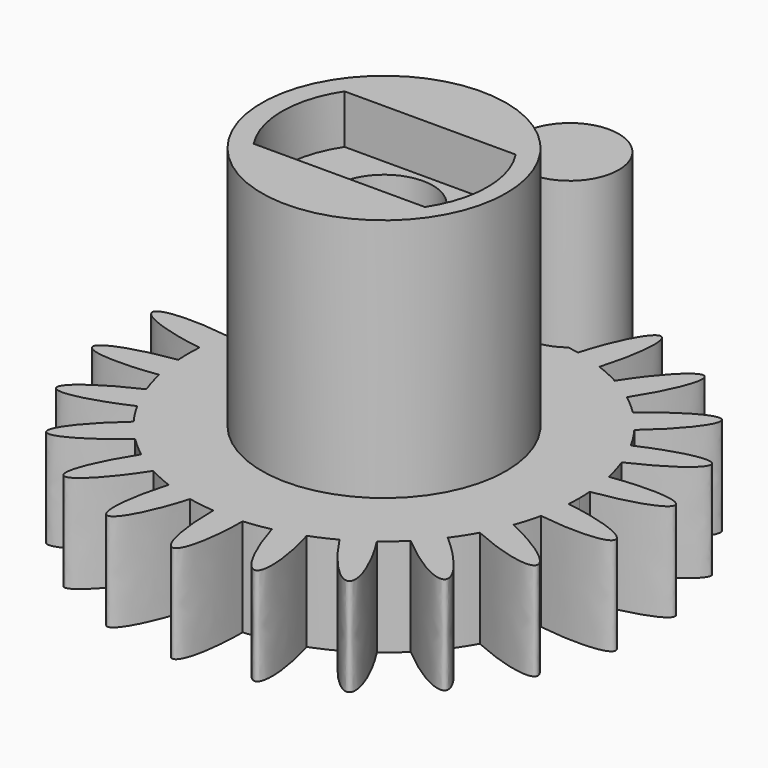
from build123d import *

# Parameters (mm, degrees)
F0_R     = 2.5
F0_R_2   = 1
F2_DEPTH = 2
F1_R     = 1
F3_DEPTH = 5
F4_DEPTH = 6
F5_DEPTH = 7


with BuildPart() as f2:
    # F0 (on Top) → F2 (new body)
    with BuildSketch(Plane.XY):
        with BuildLine():
            ThreePointArc((3.9908283651, -0.270719338), (3.9977064337, -0.1354373276), (4, 0))
            ThreePointArc((4, 0), (3.9977064337, 0.1354373276), (3.9908283651, 0.270719338))
            add(Edge.make_bspline(
                [(2.5735357489, 0.3700185795), (2.6158880295, 0.0754519975), (3.9908283651, 0.270719338)],
                knots=[0, 0, 0, 1.5627497153, 1.5627497153, 1.5627497153], degree=2, weights=[1, 0.7099459573, 1]))
            add(Edge.make_bspline(
                [(3.9054422265, 0.8645929766), (2.5311834683, 0.6645851615), (2.5735357489, 0.3700185795)],
                knots=[4.7204355919, 4.7204355919, 4.7204355919, 6.2831853072, 6.2831853072, 6.2831853072], degree=2, weights=[1, 0.7099459573, 1]))
            ThreePointArc((3.9054422265, 0.8645929766), (3.8379718945, 1.1269302274), (3.752901324, 1.3840995819))
            add(Edge.make_bspline(
                [(2.3650431879, 1.0800790338), (2.4886688999, 0.8093764844), (3.752901324, 1.3840995819)],
                knots=[0, 0, 0, 1.5627497153, 1.5627497153, 1.5627497153], degree=2, weights=[1, 0.7099459573, 1]))
            add(Edge.make_bspline(
                [(3.5036603853, 1.9298611101), (2.2414174759, 1.3507815832), (2.3650431879, 1.0800790338)],
                knots=[4.7204355919, 4.7204355919, 4.7204355919, 6.2831853072, 6.2831853072, 6.2831853072], degree=2, weights=[1, 0.7099459573, 1]))
            ThreePointArc((3.5036603853, 1.9298611101), (3.3650141313, 2.1625632698), (3.2109365369, 2.3853483092))
            add(Edge.make_bspline(
                [(1.9649488933, 1.7026379083), (2.1598326167, 1.4777301021), (3.2109365369, 2.3853483092)],
                knots=[0, 0, 0, 1.5627497153, 1.5627497153, 1.5627497153], degree=2, weights=[1, 0.7099459573, 1]))
            add(Edge.make_bspline(
                [(2.8180328167, 2.8387833739), (1.7700651699, 1.9275457144), (1.9649488933, 1.7026379083)],
                knots=[4.7204355919, 4.7204355919, 4.7204355919, 6.2831853072, 6.2831853072, 6.2831853072], degree=2, weights=[1, 0.7099459573, 1]))
            ThreePointArc((2.8180328167, 2.8387833739), (2.6194429358, 3.0229982974), (2.4088407678, 3.1933503027))
            add(Edge.make_bspline(
                [(1.4056661254, 2.1872591854), (1.6560195399, 2.0263668153), (2.4088407678, 3.1933503027)],
                knots=[0, 0, 0, 1.5627497153, 1.5627497153, 1.5627497153], degree=2, weights=[1, 0.7099459573, 1]))
            add(Edge.make_bspline(
                [(1.9041049888, 3.5177242916), (1.1553127108, 2.3481515554), (1.4056661254, 2.1872591854)],
                knots=[4.7204355919, 4.7204355919, 4.7204355919, 6.2831853072, 6.2831853072, 6.2831853072], degree=2, weights=[1, 0.7099459573, 1]))
            ThreePointArc((1.9041049888, 3.5177242916), (1.661660052, 3.6385279814), (1.4115950456, 3.7426460462))
            add(Edge.make_bspline(
                [(0.7325046478, 2.4946817314), (1.0180456088, 2.4108393404), (1.4115950456, 3.7426460462)],
                knots=[0, 0, 0, 1.5627497153, 1.5627497153, 1.5627497153], degree=2, weights=[1, 0.7099459573, 1]))
            add(Edge.make_bspline(
                [(0.8359178989, 3.9116801079), (0.4469636868, 2.5785241224), (0.7325046478, 2.4946817314)],
                knots=[4.7204355919, 4.7204355919, 4.7204355919, 6.2831853072, 6.2831853072, 6.2831853072], degree=2, weights=[1, 0.7099459573, 1]))
            ThreePointArc((0.8359178989, 3.9116801079), (0.5692593531, 3.9592857675), (0.2999902879, 3.9887348655))
            add(Edge.make_bspline(
                [(0, 2.6), (0.2975956769, 2.6), (0.2999902879, 3.9887348655)],
                knots=[0, 0, 0, 1.5627497153, 1.5627497153, 1.5627497153], degree=2, weights=[1, 0.7099459573, 1]))
            add(Edge.make_bspline(
                [(-0.2999902879, 3.9887348655), (-0.2975956769, 2.6), (0, 2.6)],
                knots=[4.7204355919, 4.7204355919, 4.7204355919, 6.2831853072, 6.2831853072, 6.2831853072], degree=2, weights=[1, 0.7099459573, 1]))
            ThreePointArc((-0.2999902879, 3.9887348655), (-0.5692593531, 3.9592857675), (-0.8359178989, 3.9116801079))
            add(Edge.make_bspline(
                [(-0.7325046478, 2.4946817314), (-0.4469636868, 2.5785241224), (-0.8359178989, 3.9116801079)],
                knots=[0, 0, 0, 1.5627497153, 1.5627497153, 1.5627497153], degree=2, weights=[1, 0.7099459573, 1]))
            add(Edge.make_bspline(
                [(-1.4115950456, 3.7426460462), (-1.0180456088, 2.4108393404), (-0.7325046478, 2.4946817314)],
                knots=[4.7204355919, 4.7204355919, 4.7204355919, 6.2831853072, 6.2831853072, 6.2831853072], degree=2, weights=[1, 0.7099459573, 1]))
            ThreePointArc((-1.4115950456, 3.7426460462), (-1.661660052, 3.6385279814), (-1.9041049888, 3.5177242916))
            add(Edge.make_bspline(
                [(-1.4056661254, 2.1872591854), (-1.1553127108, 2.3481515554), (-1.9041049888, 3.5177242916)],
                knots=[0, 0, 0, 1.5627497153, 1.5627497153, 1.5627497153], degree=2, weights=[1, 0.7099459573, 1]))
            add(Edge.make_bspline(
                [(-2.4088407678, 3.1933503027), (-1.6560195399, 2.0263668153), (-1.4056661254, 2.1872591854)],
                knots=[4.7204355919, 4.7204355919, 4.7204355919, 6.2831853072, 6.2831853072, 6.2831853072], degree=2, weights=[1, 0.7099459573, 1]))
            ThreePointArc((-2.4088407678, 3.1933503027), (-2.6194429358, 3.0229982974), (-2.8180328167, 2.8387833739))
            add(Edge.make_bspline(
                [(-1.9649488933, 1.7026379083), (-1.7700651699, 1.9275457144), (-2.8180328167, 2.8387833739)],
                knots=[0, 0, 0, 1.5627497153, 1.5627497153, 1.5627497153], degree=2, weights=[1, 0.7099459573, 1]))
            add(Edge.make_bspline(
                [(-3.2109365369, 2.3853483092), (-2.1598326167, 1.4777301021), (-1.9649488933, 1.7026379083)],
                knots=[4.7204355919, 4.7204355919, 4.7204355919, 6.2831853072, 6.2831853072, 6.2831853072], degree=2, weights=[1, 0.7099459573, 1]))
            ThreePointArc((-3.2109365369, 2.3853483092), (-3.3650141313, 2.1625632698), (-3.5036603853, 1.9298611101))
            add(Edge.make_bspline(
                [(-2.3650431879, 1.0800790338), (-2.2414174759, 1.3507815832), (-3.5036603853, 1.9298611101)],
                knots=[0, 0, 0, 1.5627497153, 1.5627497153, 1.5627497153], degree=2, weights=[1, 0.7099459573, 1]))
            add(Edge.make_bspline(
                [(-3.752901324, 1.3840995819), (-2.4886688999, 0.8093764844), (-2.3650431879, 1.0800790338)],
                knots=[4.7204355919, 4.7204355919, 4.7204355919, 6.2831853072, 6.2831853072, 6.2831853072], degree=2, weights=[1, 0.7099459573, 1]))
            ThreePointArc((-3.752901324, 1.3840995819), (-3.8379718945, 1.1269302274), (-3.9054422265, 0.8645929766))
            add(Edge.make_bspline(
                [(-2.5735357489, 0.3700185795), (-2.5311834683, 0.6645851615), (-3.9054422265, 0.8645929766)],
                knots=[0, 0, 0, 1.5627497153, 1.5627497153, 1.5627497153], degree=2, weights=[1, 0.7099459573, 1]))
            add(Edge.make_bspline(
                [(-3.9908283651, 0.270719338), (-2.6158880295, 0.0754519975), (-2.5735357489, 0.3700185795)],
                knots=[4.7204355919, 4.7204355919, 4.7204355919, 6.2831853072, 6.2831853072, 6.2831853072], degree=2, weights=[1, 0.7099459573, 1]))
            ThreePointArc((-3.9908283651, 0.270719338), (-4, 0), (-3.9908283651, -0.270719338))
            add(Edge.make_bspline(
                [(-2.5735357489, -0.3700185795), (-2.6158880295, -0.0754519975), (-3.9908283651, -0.270719338)],
                knots=[0, 0, 0, 1.5627497153, 1.5627497153, 1.5627497153], degree=2, weights=[1, 0.7099459573, 1]))
            add(Edge.make_bspline(
                [(-3.9054422265, -0.8645929766), (-2.5311834683, -0.6645851615), (-2.5735357489, -0.3700185795)],
                knots=[4.7204355919, 4.7204355919, 4.7204355919, 6.2831853072, 6.2831853072, 6.2831853072], degree=2, weights=[1, 0.7099459573, 1]))
            ThreePointArc((-3.9054422265, -0.8645929766), (-3.8379718945, -1.1269302274), (-3.752901324, -1.3840995819))
            add(Edge.make_bspline(
                [(-2.3650431879, -1.0800790338), (-2.4886688999, -0.8093764844), (-3.752901324, -1.3840995819)],
                knots=[0, 0, 0, 1.5627497153, 1.5627497153, 1.5627497153], degree=2, weights=[1, 0.7099459573, 1]))
            add(Edge.make_bspline(
                [(-3.5036603853, -1.9298611101), (-2.2414174759, -1.3507815832), (-2.3650431879, -1.0800790338)],
                knots=[4.7204355919, 4.7204355919, 4.7204355919, 6.2831853072, 6.2831853072, 6.2831853072], degree=2, weights=[1, 0.7099459573, 1]))
            ThreePointArc((-3.5036603853, -1.9298611101), (-3.3650141313, -2.1625632698), (-3.2109365369, -2.3853483092))
            add(Edge.make_bspline(
                [(-1.9649488933, -1.7026379083), (-2.1598326167, -1.4777301021), (-3.2109365369, -2.3853483092)],
                knots=[0, 0, 0, 1.5627497153, 1.5627497153, 1.5627497153], degree=2, weights=[1, 0.7099459573, 1]))
            add(Edge.make_bspline(
                [(-2.8180328167, -2.8387833739), (-1.7700651699, -1.9275457144), (-1.9649488933, -1.7026379083)],
                knots=[4.7204355919, 4.7204355919, 4.7204355919, 6.2831853072, 6.2831853072, 6.2831853072], degree=2, weights=[1, 0.7099459573, 1]))
            ThreePointArc((-2.8180328167, -2.8387833739), (-2.6194429358, -3.0229982974), (-2.4088407678, -3.1933503027))
            add(Edge.make_bspline(
                [(-1.4056661254, -2.1872591854), (-1.6560195399, -2.0263668153), (-2.4088407678, -3.1933503027)],
                knots=[0, 0, 0, 1.5627497153, 1.5627497153, 1.5627497153], degree=2, weights=[1, 0.7099459573, 1]))
            add(Edge.make_bspline(
                [(-1.9041049888, -3.5177242916), (-1.1553127108, -2.3481515554), (-1.4056661254, -2.1872591854)],
                knots=[4.7204355919, 4.7204355919, 4.7204355919, 6.2831853072, 6.2831853072, 6.2831853072], degree=2, weights=[1, 0.7099459573, 1]))
            ThreePointArc((-1.9041049888, -3.5177242916), (-1.661660052, -3.6385279814), (-1.4115950456, -3.7426460462))
            add(Edge.make_bspline(
                [(-0.7325046478, -2.4946817314), (-1.0180456088, -2.4108393404), (-1.4115950456, -3.7426460462)],
                knots=[0, 0, 0, 1.5627497153, 1.5627497153, 1.5627497153], degree=2, weights=[1, 0.7099459573, 1]))
            add(Edge.make_bspline(
                [(-0.8359178989, -3.9116801079), (-0.4469636868, -2.5785241224), (-0.7325046478, -2.4946817314)],
                knots=[4.7204355919, 4.7204355919, 4.7204355919, 6.2831853072, 6.2831853072, 6.2831853072], degree=2, weights=[1, 0.7099459573, 1]))
            ThreePointArc((-0.8359178989, -3.9116801079), (-0.5692593531, -3.9592857675), (-0.2999902879, -3.9887348655))
            add(Edge.make_bspline(
                [(0, -2.6), (-0.2975956769, -2.6), (-0.2999902879, -3.9887348655)],
                knots=[0, 0, 0, 1.5627497153, 1.5627497153, 1.5627497153], degree=2, weights=[1, 0.7099459573, 1]))
            add(Edge.make_bspline(
                [(0.2999902879, -3.9887348655), (0.2975956769, -2.6), (0, -2.6)],
                knots=[4.7204355919, 4.7204355919, 4.7204355919, 6.2831853072, 6.2831853072, 6.2831853072], degree=2, weights=[1, 0.7099459573, 1]))
            ThreePointArc((0.2999902879, -3.9887348655), (0.5692593531, -3.9592857675), (0.8359178989, -3.9116801079))
            add(Edge.make_bspline(
                [(0.7325046478, -2.4946817314), (0.4469636868, -2.5785241224), (0.8359178989, -3.9116801079)],
                knots=[0, 0, 0, 1.5627497153, 1.5627497153, 1.5627497153], degree=2, weights=[1, 0.7099459573, 1]))
            add(Edge.make_bspline(
                [(1.4115950456, -3.7426460462), (1.0180456088, -2.4108393404), (0.7325046478, -2.4946817314)],
                knots=[4.7204355919, 4.7204355919, 4.7204355919, 6.2831853072, 6.2831853072, 6.2831853072], degree=2, weights=[1, 0.7099459573, 1]))
            ThreePointArc((1.4115950456, -3.7426460462), (1.661660052, -3.6385279814), (1.9041049888, -3.5177242916))
            add(Edge.make_bspline(
                [(1.4056661254, -2.1872591854), (1.1553127108, -2.3481515554), (1.9041049888, -3.5177242916)],
                knots=[0, 0, 0, 1.5627497153, 1.5627497153, 1.5627497153], degree=2, weights=[1, 0.7099459573, 1]))
            add(Edge.make_bspline(
                [(2.4088407678, -3.1933503027), (1.6560195399, -2.0263668153), (1.4056661254, -2.1872591854)],
                knots=[4.7204355919, 4.7204355919, 4.7204355919, 6.2831853072, 6.2831853072, 6.2831853072], degree=2, weights=[1, 0.7099459573, 1]))
            ThreePointArc((2.4088407678, -3.1933503027), (2.6194429358, -3.0229982974), (2.8180328167, -2.8387833739))
            add(Edge.make_bspline(
                [(1.9649488933, -1.7026379083), (1.7700651699, -1.9275457144), (2.8180328167, -2.8387833739)],
                knots=[0, 0, 0, 1.5627497153, 1.5627497153, 1.5627497153], degree=2, weights=[1, 0.7099459573, 1]))
            add(Edge.make_bspline(
                [(3.2109365369, -2.3853483092), (2.1598326167, -1.4777301021), (1.9649488933, -1.7026379083)],
                knots=[4.7204355919, 4.7204355919, 4.7204355919, 6.2831853072, 6.2831853072, 6.2831853072], degree=2, weights=[1, 0.7099459573, 1]))
            ThreePointArc((3.2109365369, -2.3853483092), (3.3650141313, -2.1625632698), (3.5036603853, -1.9298611101))
            add(Edge.make_bspline(
                [(2.3650431879, -1.0800790338), (2.2414174759, -1.3507815832), (3.5036603853, -1.9298611101)],
                knots=[0, 0, 0, 1.5627497153, 1.5627497153, 1.5627497153], degree=2, weights=[1, 0.7099459573, 1]))
            add(Edge.make_bspline(
                [(3.752901324, -1.3840995819), (2.4886688999, -0.8093764844), (2.3650431879, -1.0800790338)],
                knots=[4.7204355919, 4.7204355919, 4.7204355919, 6.2831853072, 6.2831853072, 6.2831853072], degree=2, weights=[1, 0.7099459573, 1]))
            ThreePointArc((3.752901324, -1.3840995819), (3.8379718945, -1.1269302274), (3.9054422265, -0.8645929766))
            add(Edge.make_bspline(
                [(2.5735357489, -0.3700185795), (2.5311834683, -0.6645851615), (3.9054422265, -0.8645929766)],
                knots=[0, 0, 0, 1.5627497153, 1.5627497153, 1.5627497153], degree=2, weights=[1, 0.7099459573, 1]))
            add(Edge.make_bspline(
                [(3.9908283651, -0.270719338), (2.6158880295, -0.0754519975), (2.5735357489, -0.3700185795)],
                knots=[4.7204355919, 4.7204355919, 4.7204355919, 6.2831853072, 6.2831853072, 6.2831853072], degree=2, weights=[1, 0.7099459573, 1]))
        make_face()
        Circle(F0_R, mode=Mode.SUBTRACT)
        Circle(F0_R)
        with BuildLine():
            ThreePointArc((1.7834938945, 1.1374356594), (2.0440908208, 0.5828347654), (2.1334938945, -0.0233830173))
            ThreePointArc((2.1334938945, -0.0233830173), (2.0440908208, -0.6296007999), (1.7834938945, -1.1842016939))
            ThreePointArc((1.7834938945, -1.1842016939), (0.0334938945, -2.1233830173), (-1.7165061055, -1.1842016939))
            ThreePointArc((-1.7165061055, -1.1842016939), (-2.0665061055, -0.0233830173), (-1.7165061055, 1.1374356594))
            ThreePointArc((-1.7165061055, 1.1374356594), (0.0334938945, 2.0766169827), (1.7834938945, 1.1374356594))
        make_face(mode=Mode.SUBTRACT)
        with BuildLine():
            ThreePointArc((1.7834938945, -1.1842016939), (2.0440908208, -0.6296007999), (2.1334938945, -0.0233830173))
            ThreePointArc((2.1334938945, -0.0233830173), (2.0440908208, 0.5828347654), (1.7834938945, 1.1374356594))
            Line((1.7834938945, 1.1374356594), (-1.7165061055, 1.1374356594))
            ThreePointArc((-1.7165061055, 1.1374356594), (-2.0665061055, -0.0233830173), (-1.7165061055, -1.1842016939))
            Line((-1.7165061055, -1.1842016939), (1.7834938945, -1.1842016939))
        make_face()
        Circle(F0_R_2, mode=Mode.SUBTRACT)
        with BuildLine():
            ThreePointArc((-1.7165061055, -1.1842016939), (0.0334938945, -2.1233830173), (1.7834938945, -1.1842016939))
            Line((1.7834938945, -1.1842016939), (-1.7165061055, -1.1842016939))
        make_face()
        with BuildLine():
            Line((-1.7165061055, 1.1374356594), (1.7834938945, 1.1374356594))
            ThreePointArc((1.7834938945, 1.1374356594), (0.0334938945, 2.0766169827), (-1.7165061055, 1.1374356594))
        make_face()
        with BuildLine():
            ThreePointArc((3.9054422265, 0.8645929766), (3.9592857675, 0.5692593531), (3.9908283651, 0.270719338))
            add(Edge.make_bspline(
                [(3.9908283651, 0.270719338), (5.3880751729, 0.4691546164), (5.3450357862, 0.7685001267), (5.3019963994, 1.067845637), (3.9054422265, 0.8645929766)],
                knots=[1.5627497153, 1.5627497153, 1.5627497153, 3.1415926536, 3.1415926536, 4.7204355919, 4.7204355919, 4.7204355919], degree=2, weights=[1, 0.7042561591, 1, 0.7042561591, 1]))
        make_face()
        with BuildLine():
            add(Edge.make_bspline(
                [(3.9054422265, -0.8645929766), (5.3019963994, -1.067845637), (5.3450357862, -0.7685001267), (5.3880751729, -0.4691546164), (3.9908283651, -0.270719338)],
                knots=[1.5627497153, 1.5627497153, 1.5627497153, 3.1415926536, 3.1415926536, 4.7204355919, 4.7204355919, 4.7204355919], degree=2, weights=[1, 0.7042561591, 1, 0.7042561591, 1]))
            ThreePointArc((3.9908283651, -0.270719338), (3.9592857675, -0.5692593531), (3.9054422265, -0.8645929766))
        make_face()
        with BuildLine():
            ThreePointArc((3.5036603853, 1.9298611101), (3.6385279814, 1.661660052), (3.752901324, 1.3840995819))
            add(Edge.make_bspline(
                [(3.752901324, 1.3840995819), (5.0376441401, 1.9681467529), (4.9120127749, 2.2432410702), (4.7863814097, 2.5183353875), (3.5036603853, 1.9298611101)],
                knots=[1.5627497153, 1.5627497153, 1.5627497153, 3.1415926536, 3.1415926536, 4.7204355919, 4.7204355919, 4.7204355919], degree=2, weights=[1, 0.7042561591, 1, 0.7042561591, 1]))
        make_face()
        with BuildLine():
            add(Edge.make_bspline(
                [(3.5036603853, -1.9298611101), (4.7863814097, -2.5183353875), (4.9120127749, -2.2432410702), (5.0376441401, -1.9681467529), (3.752901324, -1.3840995819)],
                knots=[1.5627497153, 1.5627497153, 1.5627497153, 3.1415926536, 3.1415926536, 4.7204355919, 4.7204355919, 4.7204355919], degree=2, weights=[1, 0.7042561591, 1, 0.7042561591, 1]))
            ThreePointArc((3.752901324, -1.3840995819), (3.6385279814, -1.661660052), (3.5036603853, -1.9298611101))
        make_face()
        with BuildLine():
            add(Edge.make_bspline(
                [(2.8180328167, -2.8387833739), (3.8830022639, -3.7648045821), (4.0810477015, -3.5362479633), (4.2790931391, -3.3076913445), (3.2109365369, -2.3853483092)],
                knots=[1.5627497153, 1.5627497153, 1.5627497153, 3.1415926536, 3.1415926536, 4.7204355919, 4.7204355919, 4.7204355919], degree=2, weights=[1, 0.7042561591, 1, 0.7042561591, 1]))
            ThreePointArc((3.2109365369, -2.3853483092), (3.0229982974, -2.6194429358), (2.8180328167, -2.8387833739))
        make_face()
        with BuildLine():
            ThreePointArc((2.8180328167, 2.8387833739), (3.0229982974, 2.6194429358), (3.2109365369, 2.3853483092))
            add(Edge.make_bspline(
                [(3.2109365369, 2.3853483092), (4.2790931391, 3.3076913445), (4.0810477015, 3.5362479633), (3.8830022639, 3.7648045821), (2.8180328167, 2.8387833739)],
                knots=[1.5627497153, 1.5627497153, 1.5627497153, 3.1415926536, 3.1415926536, 4.7204355919, 4.7204355919, 4.7204355919], degree=2, weights=[1, 0.7042561591, 1, 0.7042561591, 1]))
        make_face()
        with BuildLine():
            ThreePointArc((1.9041049888, 3.5177242916), (2.1625632698, 3.3650141313), (2.4088407678, 3.1933503027))
            add(Edge.make_bspline(
                [(2.4088407678, 3.1933503027), (3.1738754607, 4.379266455), (2.9194604143, 4.5427690773), (2.6650453678, 4.7062716996), (1.9041049888, 3.5177242916)],
                knots=[1.5627497153, 1.5627497153, 1.5627497153, 3.1415926536, 3.1415926536, 4.7204355919, 4.7204355919, 4.7204355919], degree=2, weights=[1, 0.7042561591, 1, 0.7042561591, 1]))
        make_face()
        with BuildLine():
            add(Edge.make_bspline(
                [(1.9041049888, -3.5177242916), (2.6650453678, -4.7062716996), (2.9194604143, -4.5427690773), (3.1738754607, -4.379266455), (2.4088407678, -3.1933503027)],
                knots=[1.5627497153, 1.5627497153, 1.5627497153, 3.1415926536, 3.1415926536, 4.7204355919, 4.7204355919, 4.7204355919], degree=2, weights=[1, 0.7042561591, 1, 0.7042561591, 1]))
            ThreePointArc((2.4088407678, -3.1933503027), (2.1625632698, -3.3650141313), (1.9041049888, -3.5177242916))
        make_face()
        with BuildLine():
            ThreePointArc((0.8359178989, 3.9116801079), (1.1269302274, 3.8379718945), (1.4115950456, 3.7426460462))
            add(Edge.make_bspline(
                [(1.4115950456, 3.7426460462), (1.8115292682, 5.0960594417), (1.5213558069, 5.1812620575), (1.2311823457, 5.2664646733), (0.8359178989, 3.9116801079)],
                knots=[1.5627497153, 1.5627497153, 1.5627497153, 3.1415926536, 3.1415926536, 4.7204355919, 4.7204355919, 4.7204355919], degree=2, weights=[1, 0.7042561591, 1, 0.7042561591, 1]))
        make_face()
        with BuildLine():
            add(Edge.make_bspline(
                [(0.8359178989, -3.9116801079), (1.2311823457, -5.2664646733), (1.5213558069, -5.1812620575), (1.8115292682, -5.0960594417), (1.4115950456, -3.7426460462)],
                knots=[1.5627497153, 1.5627497153, 1.5627497153, 3.1415926536, 3.1415926536, 4.7204355919, 4.7204355919, 4.7204355919], degree=2, weights=[1, 0.7042561591, 1, 0.7042561591, 1]))
            ThreePointArc((1.4115950456, -3.7426460462), (1.1269302274, -3.8379718945), (0.8359178989, -3.9116801079))
        make_face()
        with BuildLine():
            ThreePointArc((-3.9908283651, 0.270719338), (-3.9592857675, 0.5692593531), (-3.9054422265, 0.8645929766))
            add(Edge.make_bspline(
                [(-3.9054422265, 0.8645929766), (-5.3019963994, 1.067845637), (-5.3450357862, 0.7685001267), (-5.3880751729, 0.4691546164), (-3.9908283651, 0.270719338)],
                knots=[1.5627497153, 1.5627497153, 1.5627497153, 3.1415926536, 3.1415926536, 4.7204355919, 4.7204355919, 4.7204355919], degree=2, weights=[1, 0.7042561591, 1, 0.7042561591, 1]))
        make_face()
        with BuildLine():
            add(Edge.make_bspline(
                [(-3.9908283651, -0.270719338), (-5.3880751729, -0.4691546164), (-5.3450357862, -0.7685001267), (-5.3019963994, -1.067845637), (-3.9054422265, -0.8645929766)],
                knots=[1.5627497153, 1.5627497153, 1.5627497153, 3.1415926536, 3.1415926536, 4.7204355919, 4.7204355919, 4.7204355919], degree=2, weights=[1, 0.7042561591, 1, 0.7042561591, 1]))
            ThreePointArc((-3.9054422265, -0.8645929766), (-3.9592857675, -0.5692593531), (-3.9908283651, -0.270719338))
        make_face()
        with BuildLine():
            add(Edge.make_bspline(
                [(-0.2999902879, -3.9887348655), (-0.302423748, -5.4), (0, -5.4), (0.302423748, -5.4), (0.2999902879, -3.9887348655)],
                knots=[1.5627497153, 1.5627497153, 1.5627497153, 3.1415926536, 3.1415926536, 4.7204355919, 4.7204355919, 4.7204355919], degree=2, weights=[1, 0.7042561591, 1, 0.7042561591, 1]))
            ThreePointArc((0.2999902879, -3.9887348655), (0, -4), (-0.2999902879, -3.9887348655))
        make_face()
        with BuildLine():
            ThreePointArc((-0.2999902879, 3.9887348655), (0, 4), (0.2999902879, 3.9887348655))
            add(Edge.make_bspline(
                [(0.2999902879, 3.9887348655), (0.302423748, 5.4), (0, 5.4), (-0.302423748, 5.4), (-0.2999902879, 3.9887348655)],
                knots=[1.5627497153, 1.5627497153, 1.5627497153, 3.1415926536, 3.1415926536, 4.7204355919, 4.7204355919, 4.7204355919], degree=2, weights=[1, 0.7042561591, 1, 0.7042561591, 1]))
        make_face()
        with BuildLine():
            ThreePointArc((-3.752901324, 1.3840995819), (-3.6385279814, 1.661660052), (-3.5036603853, 1.9298611101))
            add(Edge.make_bspline(
                [(-3.5036603853, 1.9298611101), (-4.7863814097, 2.5183353875), (-4.9120127749, 2.2432410702), (-5.0376441401, 1.9681467529), (-3.752901324, 1.3840995819)],
                knots=[1.5627497153, 1.5627497153, 1.5627497153, 3.1415926536, 3.1415926536, 4.7204355919, 4.7204355919, 4.7204355919], degree=2, weights=[1, 0.7042561591, 1, 0.7042561591, 1]))
        make_face()
        with BuildLine():
            add(Edge.make_bspline(
                [(-3.752901324, -1.3840995819), (-5.0376441401, -1.9681467529), (-4.9120127749, -2.2432410702), (-4.7863814097, -2.5183353875), (-3.5036603853, -1.9298611101)],
                knots=[1.5627497153, 1.5627497153, 1.5627497153, 3.1415926536, 3.1415926536, 4.7204355919, 4.7204355919, 4.7204355919], degree=2, weights=[1, 0.7042561591, 1, 0.7042561591, 1]))
            ThreePointArc((-3.5036603853, -1.9298611101), (-3.6385279814, -1.661660052), (-3.752901324, -1.3840995819))
        make_face()
        with BuildLine():
            add(Edge.make_bspline(
                [(-1.4115950456, -3.7426460462), (-1.8115292682, -5.0960594417), (-1.5213558069, -5.1812620575), (-1.2311823457, -5.2664646733), (-0.8359178989, -3.9116801079)],
                knots=[1.5627497153, 1.5627497153, 1.5627497153, 3.1415926536, 3.1415926536, 4.7204355919, 4.7204355919, 4.7204355919], degree=2, weights=[1, 0.7042561591, 1, 0.7042561591, 1]))
            ThreePointArc((-0.8359178989, -3.9116801079), (-1.1269302274, -3.8379718945), (-1.4115950456, -3.7426460462))
        make_face()
        with BuildLine():
            ThreePointArc((-1.4115950456, 3.7426460462), (-1.1269302274, 3.8379718945), (-0.8359178989, 3.9116801079))
            add(Edge.make_bspline(
                [(-0.8359178989, 3.9116801079), (-1.2311823457, 5.2664646733), (-1.5213558069, 5.1812620575), (-1.8115292682, 5.0960594417), (-1.4115950456, 3.7426460462)],
                knots=[1.5627497153, 1.5627497153, 1.5627497153, 3.1415926536, 3.1415926536, 4.7204355919, 4.7204355919, 4.7204355919], degree=2, weights=[1, 0.7042561591, 1, 0.7042561591, 1]))
        make_face()
        with BuildLine():
            ThreePointArc((-3.2109365369, 2.3853483092), (-3.0229982974, 2.6194429358), (-2.8180328167, 2.8387833739))
            add(Edge.make_bspline(
                [(-2.8180328167, 2.8387833739), (-3.8830022639, 3.7648045821), (-4.0810477015, 3.5362479633), (-4.2790931391, 3.3076913445), (-3.2109365369, 2.3853483092)],
                knots=[1.5627497153, 1.5627497153, 1.5627497153, 3.1415926536, 3.1415926536, 4.7204355919, 4.7204355919, 4.7204355919], degree=2, weights=[1, 0.7042561591, 1, 0.7042561591, 1]))
        make_face()
        with BuildLine():
            add(Edge.make_bspline(
                [(-3.2109365369, -2.3853483092), (-4.2790931391, -3.3076913445), (-4.0810477015, -3.5362479633), (-3.8830022639, -3.7648045821), (-2.8180328167, -2.8387833739)],
                knots=[1.5627497153, 1.5627497153, 1.5627497153, 3.1415926536, 3.1415926536, 4.7204355919, 4.7204355919, 4.7204355919], degree=2, weights=[1, 0.7042561591, 1, 0.7042561591, 1]))
            ThreePointArc((-2.8180328167, -2.8387833739), (-3.0229982974, -2.6194429358), (-3.2109365369, -2.3853483092))
        make_face()
        with BuildLine():
            add(Edge.make_bspline(
                [(-2.4088407678, -3.1933503027), (-3.1738754607, -4.379266455), (-2.9194604143, -4.5427690773), (-2.6650453678, -4.7062716996), (-1.9041049888, -3.5177242916)],
                knots=[1.5627497153, 1.5627497153, 1.5627497153, 3.1415926536, 3.1415926536, 4.7204355919, 4.7204355919, 4.7204355919], degree=2, weights=[1, 0.7042561591, 1, 0.7042561591, 1]))
            ThreePointArc((-1.9041049888, -3.5177242916), (-2.1625632698, -3.3650141313), (-2.4088407678, -3.1933503027))
        make_face()
        with BuildLine():
            ThreePointArc((-2.4088407678, 3.1933503027), (-2.1625632698, 3.3650141313), (-1.9041049888, 3.5177242916))
            add(Edge.make_bspline(
                [(-1.9041049888, 3.5177242916), (-2.6650453678, 4.7062716996), (-2.9194604143, 4.5427690773), (-3.1738754607, 4.379266455), (-2.4088407678, 3.1933503027)],
                knots=[1.5627497153, 1.5627497153, 1.5627497153, 3.1415926536, 3.1415926536, 4.7204355919, 4.7204355919, 4.7204355919], degree=2, weights=[1, 0.7042561591, 1, 0.7042561591, 1]))
        make_face()
        with BuildLine():
            add(Edge.make_bspline(
                [(2.5735357489, 0.3700185795), (2.6158880295, 0.0754519975), (3.9908283651, 0.270719338)],
                knots=[0, 0, 0, 1.5627497153, 1.5627497153, 1.5627497153], degree=2, weights=[1, 0.7099459573, 1]))
            ThreePointArc((3.9908283651, 0.270719338), (3.9592857675, 0.5692593531), (3.9054422265, 0.8645929766))
            add(Edge.make_bspline(
                [(3.9054422265, 0.8645929766), (2.5311834683, 0.6645851615), (2.5735357489, 0.3700185795)],
                knots=[4.7204355919, 4.7204355919, 4.7204355919, 6.2831853072, 6.2831853072, 6.2831853072], degree=2, weights=[1, 0.7099459573, 1]))
        make_face()
        with BuildLine():
            ThreePointArc((3.5036603853, -1.9298611101), (3.6385279814, -1.661660052), (3.752901324, -1.3840995819))
            add(Edge.make_bspline(
                [(3.752901324, -1.3840995819), (2.4886688999, -0.8093764844), (2.3650431879, -1.0800790338)],
                knots=[4.7204355919, 4.7204355919, 4.7204355919, 6.2831853072, 6.2831853072, 6.2831853072], degree=2, weights=[1, 0.7099459573, 1]))
            add(Edge.make_bspline(
                [(2.3650431879, -1.0800790338), (2.2414174759, -1.3507815832), (3.5036603853, -1.9298611101)],
                knots=[0, 0, 0, 1.5627497153, 1.5627497153, 1.5627497153], degree=2, weights=[1, 0.7099459573, 1]))
        make_face()
        with BuildLine():
            add(Edge.make_bspline(
                [(1.9649488933, 1.7026379083), (2.1598326167, 1.4777301021), (3.2109365369, 2.3853483092)],
                knots=[0, 0, 0, 1.5627497153, 1.5627497153, 1.5627497153], degree=2, weights=[1, 0.7099459573, 1]))
            ThreePointArc((3.2109365369, 2.3853483092), (3.0229982974, 2.6194429358), (2.8180328167, 2.8387833739))
            add(Edge.make_bspline(
                [(2.8180328167, 2.8387833739), (1.7700651699, 1.9275457144), (1.9649488933, 1.7026379083)],
                knots=[4.7204355919, 4.7204355919, 4.7204355919, 6.2831853072, 6.2831853072, 6.2831853072], degree=2, weights=[1, 0.7099459573, 1]))
        make_face()
        with BuildLine():
            ThreePointArc((-0.2999902879, -3.9887348655), (0, -4), (0.2999902879, -3.9887348655))
            add(Edge.make_bspline(
                [(0.2999902879, -3.9887348655), (0.2975956769, -2.6), (0, -2.6)],
                knots=[4.7204355919, 4.7204355919, 4.7204355919, 6.2831853072, 6.2831853072, 6.2831853072], degree=2, weights=[1, 0.7099459573, 1]))
            add(Edge.make_bspline(
                [(0, -2.6), (-0.2975956769, -2.6), (-0.2999902879, -3.9887348655)],
                knots=[0, 0, 0, 1.5627497153, 1.5627497153, 1.5627497153], degree=2, weights=[1, 0.7099459573, 1]))
        make_face()
        with BuildLine():
            add(Edge.make_bspline(
                [(0, 2.6), (0.2975956769, 2.6), (0.2999902879, 3.9887348655)],
                knots=[0, 0, 0, 1.5627497153, 1.5627497153, 1.5627497153], degree=2, weights=[1, 0.7099459573, 1]))
            ThreePointArc((0.2999902879, 3.9887348655), (0, 4), (-0.2999902879, 3.9887348655))
            add(Edge.make_bspline(
                [(-0.2999902879, 3.9887348655), (-0.2975956769, 2.6), (0, 2.6)],
                knots=[4.7204355919, 4.7204355919, 4.7204355919, 6.2831853072, 6.2831853072, 6.2831853072], degree=2, weights=[1, 0.7099459573, 1]))
        make_face()
        with BuildLine():
            ThreePointArc((0.8359178989, -3.9116801079), (1.1269302274, -3.8379718945), (1.4115950456, -3.7426460462))
            add(Edge.make_bspline(
                [(1.4115950456, -3.7426460462), (1.0180456088, -2.4108393404), (0.7325046478, -2.4946817314)],
                knots=[4.7204355919, 4.7204355919, 4.7204355919, 6.2831853072, 6.2831853072, 6.2831853072], degree=2, weights=[1, 0.7099459573, 1]))
            add(Edge.make_bspline(
                [(0.7325046478, -2.4946817314), (0.4469636868, -2.5785241224), (0.8359178989, -3.9116801079)],
                knots=[0, 0, 0, 1.5627497153, 1.5627497153, 1.5627497153], degree=2, weights=[1, 0.7099459573, 1]))
        make_face()
        with BuildLine():
            add(Edge.make_bspline(
                [(1.4056661254, 2.1872591854), (1.6560195399, 2.0263668153), (2.4088407678, 3.1933503027)],
                knots=[0, 0, 0, 1.5627497153, 1.5627497153, 1.5627497153], degree=2, weights=[1, 0.7099459573, 1]))
            ThreePointArc((2.4088407678, 3.1933503027), (2.1625632698, 3.3650141313), (1.9041049888, 3.5177242916))
            add(Edge.make_bspline(
                [(1.9041049888, 3.5177242916), (1.1553127108, 2.3481515554), (1.4056661254, 2.1872591854)],
                knots=[4.7204355919, 4.7204355919, 4.7204355919, 6.2831853072, 6.2831853072, 6.2831853072], degree=2, weights=[1, 0.7099459573, 1]))
        make_face()
        with BuildLine():
            add(Edge.make_bspline(
                [(2.3650431879, 1.0800790338), (2.4886688999, 0.8093764844), (3.752901324, 1.3840995819)],
                knots=[0, 0, 0, 1.5627497153, 1.5627497153, 1.5627497153], degree=2, weights=[1, 0.7099459573, 1]))
            ThreePointArc((3.752901324, 1.3840995819), (3.6385279814, 1.661660052), (3.5036603853, 1.9298611101))
            add(Edge.make_bspline(
                [(3.5036603853, 1.9298611101), (2.2414174759, 1.3507815832), (2.3650431879, 1.0800790338)],
                knots=[4.7204355919, 4.7204355919, 4.7204355919, 6.2831853072, 6.2831853072, 6.2831853072], degree=2, weights=[1, 0.7099459573, 1]))
        make_face()
        with BuildLine():
            ThreePointArc((2.8180328167, -2.8387833739), (3.0229982974, -2.6194429358), (3.2109365369, -2.3853483092))
            add(Edge.make_bspline(
                [(3.2109365369, -2.3853483092), (2.1598326167, -1.4777301021), (1.9649488933, -1.7026379083)],
                knots=[4.7204355919, 4.7204355919, 4.7204355919, 6.2831853072, 6.2831853072, 6.2831853072], degree=2, weights=[1, 0.7099459573, 1]))
            add(Edge.make_bspline(
                [(1.9649488933, -1.7026379083), (1.7700651699, -1.9275457144), (2.8180328167, -2.8387833739)],
                knots=[0, 0, 0, 1.5627497153, 1.5627497153, 1.5627497153], degree=2, weights=[1, 0.7099459573, 1]))
        make_face()
        with BuildLine():
            ThreePointArc((1.9041049888, -3.5177242916), (2.1625632698, -3.3650141313), (2.4088407678, -3.1933503027))
            add(Edge.make_bspline(
                [(2.4088407678, -3.1933503027), (1.6560195399, -2.0263668153), (1.4056661254, -2.1872591854)],
                knots=[4.7204355919, 4.7204355919, 4.7204355919, 6.2831853072, 6.2831853072, 6.2831853072], degree=2, weights=[1, 0.7099459573, 1]))
            add(Edge.make_bspline(
                [(1.4056661254, -2.1872591854), (1.1553127108, -2.3481515554), (1.9041049888, -3.5177242916)],
                knots=[0, 0, 0, 1.5627497153, 1.5627497153, 1.5627497153], degree=2, weights=[1, 0.7099459573, 1]))
        make_face()
        with BuildLine():
            add(Edge.make_bspline(
                [(0.7325046478, 2.4946817314), (1.0180456088, 2.4108393404), (1.4115950456, 3.7426460462)],
                knots=[0, 0, 0, 1.5627497153, 1.5627497153, 1.5627497153], degree=2, weights=[1, 0.7099459573, 1]))
            ThreePointArc((1.4115950456, 3.7426460462), (1.1269302274, 3.8379718945), (0.8359178989, 3.9116801079))
            add(Edge.make_bspline(
                [(0.8359178989, 3.9116801079), (0.4469636868, 2.5785241224), (0.7325046478, 2.4946817314)],
                knots=[4.7204355919, 4.7204355919, 4.7204355919, 6.2831853072, 6.2831853072, 6.2831853072], degree=2, weights=[1, 0.7099459573, 1]))
        make_face()
        with BuildLine():
            ThreePointArc((3.9054422265, -0.8645929766), (3.9592857675, -0.5692593531), (3.9908283651, -0.270719338))
            add(Edge.make_bspline(
                [(3.9908283651, -0.270719338), (2.6158880295, -0.0754519975), (2.5735357489, -0.3700185795)],
                knots=[4.7204355919, 4.7204355919, 4.7204355919, 6.2831853072, 6.2831853072, 6.2831853072], degree=2, weights=[1, 0.7099459573, 1]))
            add(Edge.make_bspline(
                [(2.5735357489, -0.3700185795), (2.5311834683, -0.6645851615), (3.9054422265, -0.8645929766)],
                knots=[0, 0, 0, 1.5627497153, 1.5627497153, 1.5627497153], degree=2, weights=[1, 0.7099459573, 1]))
        make_face()
        with BuildLine():
            add(Edge.make_bspline(
                [(-0.7325046478, 2.4946817314), (-0.4469636868, 2.5785241224), (-0.8359178989, 3.9116801079)],
                knots=[0, 0, 0, 1.5627497153, 1.5627497153, 1.5627497153], degree=2, weights=[1, 0.7099459573, 1]))
            ThreePointArc((-0.8359178989, 3.9116801079), (-1.1269302274, 3.8379718945), (-1.4115950456, 3.7426460462))
            add(Edge.make_bspline(
                [(-1.4115950456, 3.7426460462), (-1.0180456088, 2.4108393404), (-0.7325046478, 2.4946817314)],
                knots=[4.7204355919, 4.7204355919, 4.7204355919, 6.2831853072, 6.2831853072, 6.2831853072], degree=2, weights=[1, 0.7099459573, 1]))
        make_face()
        with BuildLine():
            add(Edge.make_bspline(
                [(-2.5735357489, 0.3700185795), (-2.5311834683, 0.6645851615), (-3.9054422265, 0.8645929766)],
                knots=[0, 0, 0, 1.5627497153, 1.5627497153, 1.5627497153], degree=2, weights=[1, 0.7099459573, 1]))
            ThreePointArc((-3.9054422265, 0.8645929766), (-3.9592857675, 0.5692593531), (-3.9908283651, 0.270719338))
            add(Edge.make_bspline(
                [(-3.9908283651, 0.270719338), (-2.6158880295, 0.0754519975), (-2.5735357489, 0.3700185795)],
                knots=[4.7204355919, 4.7204355919, 4.7204355919, 6.2831853072, 6.2831853072, 6.2831853072], degree=2, weights=[1, 0.7099459573, 1]))
        make_face()
        with BuildLine():
            add(Edge.make_bspline(
                [(-1.4056661254, 2.1872591854), (-1.1553127108, 2.3481515554), (-1.9041049888, 3.5177242916)],
                knots=[0, 0, 0, 1.5627497153, 1.5627497153, 1.5627497153], degree=2, weights=[1, 0.7099459573, 1]))
            ThreePointArc((-1.9041049888, 3.5177242916), (-2.1625632698, 3.3650141313), (-2.4088407678, 3.1933503027))
            add(Edge.make_bspline(
                [(-2.4088407678, 3.1933503027), (-1.6560195399, 2.0263668153), (-1.4056661254, 2.1872591854)],
                knots=[4.7204355919, 4.7204355919, 4.7204355919, 6.2831853072, 6.2831853072, 6.2831853072], degree=2, weights=[1, 0.7099459573, 1]))
        make_face()
        with BuildLine():
            ThreePointArc((-2.4088407678, -3.1933503027), (-2.1625632698, -3.3650141313), (-1.9041049888, -3.5177242916))
            add(Edge.make_bspline(
                [(-1.9041049888, -3.5177242916), (-1.1553127108, -2.3481515554), (-1.4056661254, -2.1872591854)],
                knots=[4.7204355919, 4.7204355919, 4.7204355919, 6.2831853072, 6.2831853072, 6.2831853072], degree=2, weights=[1, 0.7099459573, 1]))
            add(Edge.make_bspline(
                [(-1.4056661254, -2.1872591854), (-1.6560195399, -2.0263668153), (-2.4088407678, -3.1933503027)],
                knots=[0, 0, 0, 1.5627497153, 1.5627497153, 1.5627497153], degree=2, weights=[1, 0.7099459573, 1]))
        make_face()
        with BuildLine():
            add(Edge.make_bspline(
                [(-2.3650431879, 1.0800790338), (-2.2414174759, 1.3507815832), (-3.5036603853, 1.9298611101)],
                knots=[0, 0, 0, 1.5627497153, 1.5627497153, 1.5627497153], degree=2, weights=[1, 0.7099459573, 1]))
            ThreePointArc((-3.5036603853, 1.9298611101), (-3.6385279814, 1.661660052), (-3.752901324, 1.3840995819))
            add(Edge.make_bspline(
                [(-3.752901324, 1.3840995819), (-2.4886688999, 0.8093764844), (-2.3650431879, 1.0800790338)],
                knots=[4.7204355919, 4.7204355919, 4.7204355919, 6.2831853072, 6.2831853072, 6.2831853072], degree=2, weights=[1, 0.7099459573, 1]))
        make_face()
        with BuildLine():
            ThreePointArc((-3.752901324, -1.3840995819), (-3.6385279814, -1.661660052), (-3.5036603853, -1.9298611101))
            add(Edge.make_bspline(
                [(-3.5036603853, -1.9298611101), (-2.2414174759, -1.3507815832), (-2.3650431879, -1.0800790338)],
                knots=[4.7204355919, 4.7204355919, 4.7204355919, 6.2831853072, 6.2831853072, 6.2831853072], degree=2, weights=[1, 0.7099459573, 1]))
            add(Edge.make_bspline(
                [(-2.3650431879, -1.0800790338), (-2.4886688999, -0.8093764844), (-3.752901324, -1.3840995819)],
                knots=[0, 0, 0, 1.5627497153, 1.5627497153, 1.5627497153], degree=2, weights=[1, 0.7099459573, 1]))
        make_face()
        with BuildLine():
            ThreePointArc((-3.2109365369, -2.3853483092), (-3.0229982974, -2.6194429358), (-2.8180328167, -2.8387833739))
            add(Edge.make_bspline(
                [(-2.8180328167, -2.8387833739), (-1.7700651699, -1.9275457144), (-1.9649488933, -1.7026379083)],
                knots=[4.7204355919, 4.7204355919, 4.7204355919, 6.2831853072, 6.2831853072, 6.2831853072], degree=2, weights=[1, 0.7099459573, 1]))
            add(Edge.make_bspline(
                [(-1.9649488933, -1.7026379083), (-2.1598326167, -1.4777301021), (-3.2109365369, -2.3853483092)],
                knots=[0, 0, 0, 1.5627497153, 1.5627497153, 1.5627497153], degree=2, weights=[1, 0.7099459573, 1]))
        make_face()
        with BuildLine():
            ThreePointArc((-1.4115950456, -3.7426460462), (-1.1269302274, -3.8379718945), (-0.8359178989, -3.9116801079))
            add(Edge.make_bspline(
                [(-0.8359178989, -3.9116801079), (-0.4469636868, -2.5785241224), (-0.7325046478, -2.4946817314)],
                knots=[4.7204355919, 4.7204355919, 4.7204355919, 6.2831853072, 6.2831853072, 6.2831853072], degree=2, weights=[1, 0.7099459573, 1]))
            add(Edge.make_bspline(
                [(-0.7325046478, -2.4946817314), (-1.0180456088, -2.4108393404), (-1.4115950456, -3.7426460462)],
                knots=[0, 0, 0, 1.5627497153, 1.5627497153, 1.5627497153], degree=2, weights=[1, 0.7099459573, 1]))
        make_face()
        with BuildLine():
            ThreePointArc((-3.9908283651, -0.270719338), (-3.9592857675, -0.5692593531), (-3.9054422265, -0.8645929766))
            add(Edge.make_bspline(
                [(-3.9054422265, -0.8645929766), (-2.5311834683, -0.6645851615), (-2.5735357489, -0.3700185795)],
                knots=[4.7204355919, 4.7204355919, 4.7204355919, 6.2831853072, 6.2831853072, 6.2831853072], degree=2, weights=[1, 0.7099459573, 1]))
            add(Edge.make_bspline(
                [(-2.5735357489, -0.3700185795), (-2.6158880295, -0.0754519975), (-3.9908283651, -0.270719338)],
                knots=[0, 0, 0, 1.5627497153, 1.5627497153, 1.5627497153], degree=2, weights=[1, 0.7099459573, 1]))
        make_face()
        with BuildLine():
            add(Edge.make_bspline(
                [(-1.9649488933, 1.7026379083), (-1.7700651699, 1.9275457144), (-2.8180328167, 2.8387833739)],
                knots=[0, 0, 0, 1.5627497153, 1.5627497153, 1.5627497153], degree=2, weights=[1, 0.7099459573, 1]))
            ThreePointArc((-2.8180328167, 2.8387833739), (-3.0229982974, 2.6194429358), (-3.2109365369, 2.3853483092))
            add(Edge.make_bspline(
                [(-3.2109365369, 2.3853483092), (-2.1598326167, 1.4777301021), (-1.9649488933, 1.7026379083)],
                knots=[4.7204355919, 4.7204355919, 4.7204355919, 6.2831853072, 6.2831853072, 6.2831853072], degree=2, weights=[1, 0.7099459573, 1]))
        make_face()
    extrude(amount=F2_DEPTH)

    # F1 (on Top) → F3 (join)
    with BuildSketch(Plane.XY):
        with Locations((0, 4.75)):
            Circle(F1_R)
    extrude(amount=F3_DEPTH)

    # F0 (on Top) → F4 (join)
    with BuildSketch(Plane.XY):
        Circle(F0_R)
        with BuildLine():
            ThreePointArc((1.7834938945, 1.1374356594), (2.0440908208, 0.5828347654), (2.1334938945, -0.0233830173))
            ThreePointArc((2.1334938945, -0.0233830173), (2.0440908208, -0.6296007999), (1.7834938945, -1.1842016939))
            ThreePointArc((1.7834938945, -1.1842016939), (0.0334938945, -2.1233830173), (-1.7165061055, -1.1842016939))
            ThreePointArc((-1.7165061055, -1.1842016939), (-2.0665061055, -0.0233830173), (-1.7165061055, 1.1374356594))
            ThreePointArc((-1.7165061055, 1.1374356594), (0.0334938945, 2.0766169827), (1.7834938945, 1.1374356594))
        make_face(mode=Mode.SUBTRACT)
        with BuildLine():
            ThreePointArc((-1.7165061055, -1.1842016939), (0.0334938945, -2.1233830173), (1.7834938945, -1.1842016939))
            Line((1.7834938945, -1.1842016939), (-1.7165061055, -1.1842016939))
        make_face()
        with BuildLine():
            Line((-1.7165061055, 1.1374356594), (1.7834938945, 1.1374356594))
            ThreePointArc((1.7834938945, 1.1374356594), (0.0334938945, 2.0766169827), (-1.7165061055, 1.1374356594))
        make_face()
        with BuildLine():
            ThreePointArc((1.7834938945, -1.1842016939), (2.0440908208, -0.6296007999), (2.1334938945, -0.0233830173))
            ThreePointArc((2.1334938945, -0.0233830173), (2.0440908208, 0.5828347654), (1.7834938945, 1.1374356594))
            Line((1.7834938945, 1.1374356594), (-1.7165061055, 1.1374356594))
            ThreePointArc((-1.7165061055, 1.1374356594), (-2.0665061055, -0.0233830173), (-1.7165061055, -1.1842016939))
            Line((-1.7165061055, -1.1842016939), (1.7834938945, -1.1842016939))
        make_face()
        Circle(F0_R_2, mode=Mode.SUBTRACT)
    extrude(amount=F4_DEPTH)

    # F0 (on Top) → F5 (join)
    with BuildSketch(Plane.XY):
        Circle(F0_R)
        with BuildLine():
            ThreePointArc((1.7834938945, 1.1374356594), (2.0440908208, 0.5828347654), (2.1334938945, -0.0233830173))
            ThreePointArc((2.1334938945, -0.0233830173), (2.0440908208, -0.6296007999), (1.7834938945, -1.1842016939))
            ThreePointArc((1.7834938945, -1.1842016939), (0.0334938945, -2.1233830173), (-1.7165061055, -1.1842016939))
            ThreePointArc((-1.7165061055, -1.1842016939), (-2.0665061055, -0.0233830173), (-1.7165061055, 1.1374356594))
            ThreePointArc((-1.7165061055, 1.1374356594), (0.0334938945, 2.0766169827), (1.7834938945, 1.1374356594))
        make_face(mode=Mode.SUBTRACT)
        with BuildLine():
            ThreePointArc((-1.7165061055, -1.1842016939), (0.0334938945, -2.1233830173), (1.7834938945, -1.1842016939))
            Line((1.7834938945, -1.1842016939), (-1.7165061055, -1.1842016939))
        make_face()
        with BuildLine():
            Line((-1.7165061055, 1.1374356594), (1.7834938945, 1.1374356594))
            ThreePointArc((1.7834938945, 1.1374356594), (0.0334938945, 2.0766169827), (-1.7165061055, 1.1374356594))
        make_face()
    extrude(amount=F5_DEPTH)


solid = f2.part
